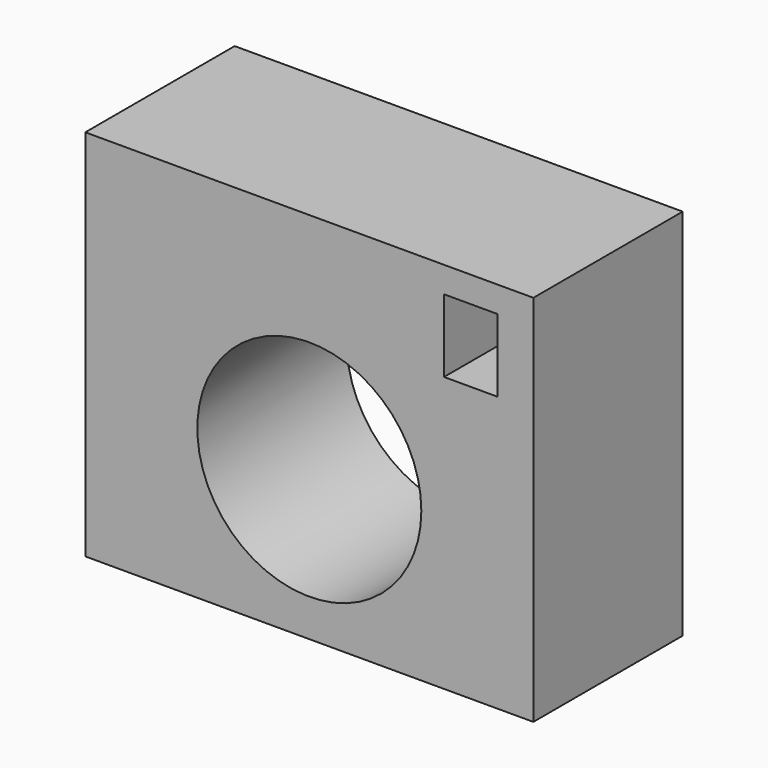
from build123d import *

# Parameters (mm, degrees)
F0_W     = 60
F0_H     = 50
F1_DEPTH = 25
F2_R     = 15
F3_DEPTH = 25.001
F4_W     = 7.128705
F4_H     = 9.750254
F5_DEPTH = 25


with BuildPart() as f1:
    # F0 (on Front) → F1 (new body)
    with BuildSketch(Plane.XZ):
        with Locations((30, 25)):
            Rectangle(F0_W, F0_H)
    extrude(amount=F1_DEPTH)

    # F2 (on face) → F3 (cut, through all)
    with BuildSketch(Plane.XZ.offset(25)):
        with Locations((30, 20)):
            Circle(F2_R)
    extrude(amount=-F3_DEPTH, mode=Mode.SUBTRACT)

    # F4 (on face) → F5 (cut)
    with BuildSketch(Plane.XZ.offset(25)):
        with Locations((51.603125, 41.651424)):
            Rectangle(F4_W, F4_H)
    extrude(amount=-F5_DEPTH, mode=Mode.SUBTRACT)


solid = f1.part
